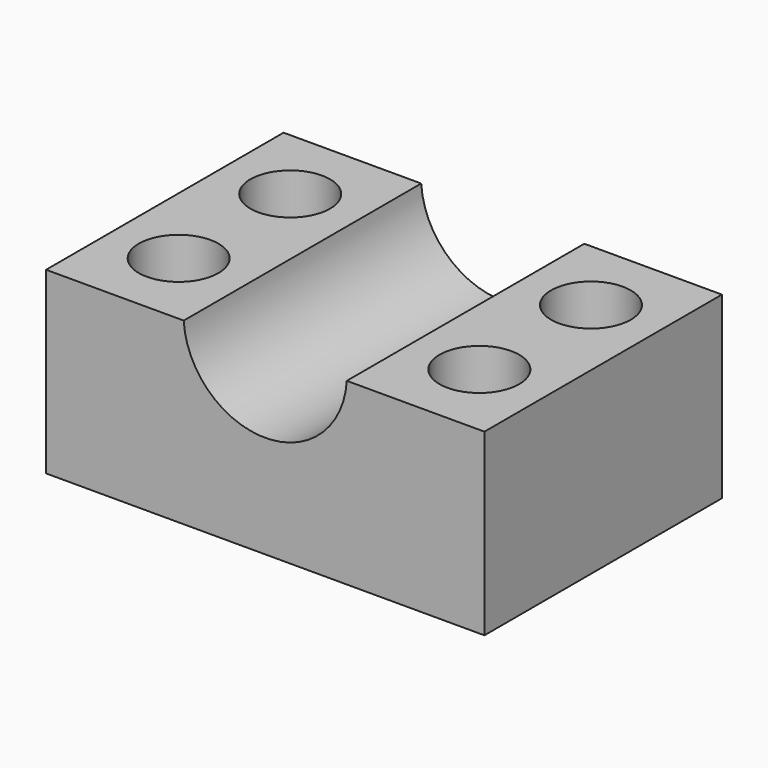
from build123d import *

# Parameters (mm, degrees)
PAD016_DEPTH    = 14.9
SKETCH037_R     = 2
POCKET017_DEPTH = 9.251
SKETCH038_R     = 3
POCKET018_DEPTH = 2.5


with BuildPart() as part:
    # Sketch036 (on DatumPlane) → Pad016 (new body)
    with BuildSketch(Plane.XZ.offset(9.9)):
        with BuildLine():
            Line((-22, -0.25), (-22, -9.25))
            Line((-22, -9.25), (0, -9.25))
            Line((0, -9.25), (0, -0.25))
            Line((-6.907629, -0.25), (0, -0.25))
            ThreePointArc((-15.092371, -0.25), (-11, -4.1), (-6.907629, -0.25))
            Line((-15.092371, -0.25), (-22, -0.25))
        make_face()
    extrude(amount=PAD016_DEPTH)

    # Sketch037 → Pocket017 (cut, through all)
    with BuildSketch(Plane.XY):
        with Locations((-18.546185, -13.8)):
            Circle(SKETCH037_R)
        with Locations((-18.546185, -20.8)):
            Circle(SKETCH037_R)
        with Locations((-3.453815, -20.8)):
            Circle(SKETCH037_R)
        with Locations((-3.453815, -13.8)):
            Circle(SKETCH037_R)
    extrude(amount=-POCKET017_DEPTH, mode=Mode.SUBTRACT)

    # Sketch038 (on DatumPlane) → Pocket018 (cut)
    with BuildSketch(Plane.XY.offset(-9.25)):
        with Locations((-18.546185, -13.8)):
            Circle(SKETCH038_R)
        with Locations((-18.546185, -20.8)):
            Circle(SKETCH038_R)
        with Locations((-3.453815, -13.8)):
            Circle(SKETCH038_R)
        with Locations((-3.453815, -20.8)):
            Circle(SKETCH038_R)
    extrude(amount=POCKET018_DEPTH, mode=Mode.SUBTRACT)


with BuildPart() as part_1:
    # Body021 placement: moved
    add(part.part.moved(Location((0, 0, 0.25))))


solid = part_1.part
